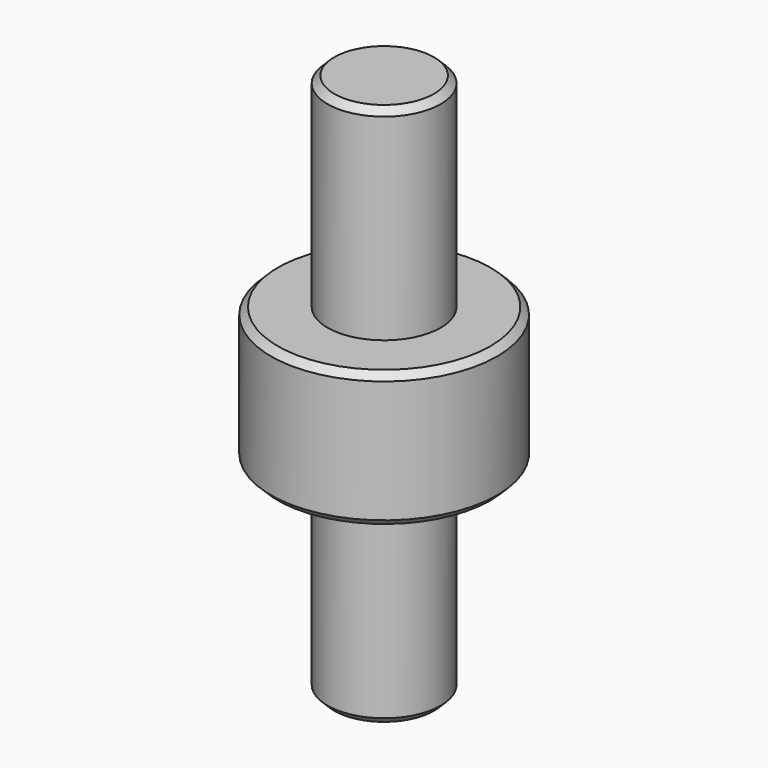
from build123d import *

# Parameters (mm, degrees)
F0_R     = 3.175
F1_DEPTH = 15.24
F0_R_2   = 6.35
F2_DEPTH = 3.81
F3_SIZE  = 0.381


with BuildPart() as f1:
    # F0 (on Top) → F1 (new body, symmetric)
    with BuildSketch(Plane.XY):
        Circle(F0_R)
    extrude(amount=F1_DEPTH, both=True)

    # F0 (on Top) → F2 (join, symmetric)
    with BuildSketch(Plane.XY):
        Circle(F0_R_2)
        Circle(F0_R, mode=Mode.SUBTRACT)
    extrude(amount=F2_DEPTH, both=True)

    # F3
    f3_edges = [f1.edges().sort_by_distance(p)[0] for p in [
        (-6.35, 0, 3.81),
        (-6.35, 0, -3.81),
        (-3.175, 0, 15.24),
        (-3.175, 0, -15.24),
    ]]
    chamfer(f3_edges, length=F3_SIZE)


solid = f1.part
